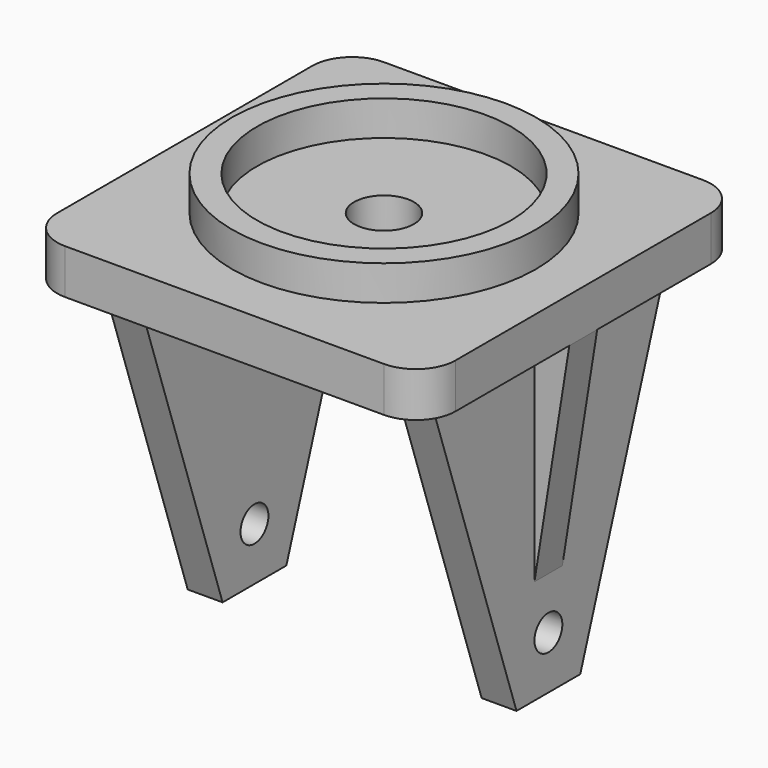
from build123d import *

# Parameters (mm, degrees)
F1_DEPTH  = 9
F2_R      = 30.5
F2_R_2    = 25.5
F3_DEPTH  = 7
F4_R      = 6
F5_DEPTH  = 9.001
F6_W      = 7
F6_H      = 60
F7_DEPTH  = 65
F9_DEPTH  = 73.001
F11_DEPTH = 7
F13_DEPTH = 43.501
F15_DEPTH = 7
F17_DEPTH = 43.501
F18_R     = 3.5
F19_DEPTH = 73.001


with BuildPart() as f1:
    # F0 (on Top) → F1 (new body)
    with BuildSketch(Plane.XY):
        with BuildLine():
            Line((33.60959, 30.321302), (-30.39041, 30.321302))
            ThreePointArc((-30.39041, 30.321302), (-36.047264, 27.978156), (-38.39041, 22.321302))
            Line((-38.39041, 22.321302), (-38.39041, -41.678698))
            ThreePointArc((-38.39041, -41.678698), (-36.047264, -47.335552), (-30.39041, -49.678698))
            Line((-30.39041, -49.678698), (33.60959, -49.678698))
            ThreePointArc((33.60959, -49.678698), (39.266444, -47.335552), (41.60959, -41.678698))
            Line((41.60959, -41.678698), (41.60959, 22.321302))
            ThreePointArc((41.60959, 22.321302), (39.266444, 27.978156), (33.60959, 30.321302))
        make_face()
    extrude(amount=F1_DEPTH)

    # F2 (on face) → F3 (join)
    with BuildSketch(Plane.XY.offset(9)):
        with Locations((1.60959, -9.678698)):
            Circle(F2_R)
        with Locations((1.60959, -9.678698)):
            Circle(F2_R_2, mode=Mode.SUBTRACT)
    extrude(amount=F3_DEPTH)

    # F4 (on face) → F5 (cut, through all)
    with BuildSketch(Plane.XY.offset(9)):
        with Locations((1.60959, -9.678698)):
            Circle(F4_R)
    extrude(amount=-F5_DEPTH, mode=Mode.SUBTRACT)

    # F6 (on face) → F7 (join)
    with BuildSketch(Plane(origin=(0, 0, 0), x_dir=(1, 0, 0), z_dir=(0, 0, -1))):
        with Locations((-27.89041, 9.678698)):
            Rectangle(F6_W, F6_H)
        with Locations((31.10959, 9.678698)):
            Rectangle(F6_W, F6_H)
    extrude(amount=F7_DEPTH)

    # F8 (on face) → F9 (cut, through all)
    with BuildSketch(Plane.YZ.offset(34.60959)):
        Polygon((20.321302, -65), (20.321302, 0), (-1.678698, -65), align=None)
        Polygon((-17.678698, -65), (-39.678698, 0), (-39.678698, -65), align=None)
    extrude(amount=-F9_DEPTH, mode=Mode.SUBTRACT)

    # F10 (on face) → F11 (join)
    with BuildSketch(Plane.YZ.offset(34.60959)):
        Polygon((-6.178698, 0), (-9.678698, 0), (-13.178698, 0), (-13.178698, -44), (-6.178698, -44), align=None)
    extrude(amount=F11_DEPTH)

    # F12 (on face) → F13 (cut, through all)
    with BuildSketch(Plane(origin=(0, -6.178698, 0), x_dir=(-1, 0, 0), z_dir=(0, 1, 0))):
        Polygon((-34.60959, -44), (-41.60959, 0), (-41.60959, -44), align=None)
    extrude(amount=-F13_DEPTH, mode=Mode.SUBTRACT)

    # F14 (on face) → F15 (join)
    with BuildSketch(Plane(origin=(-31.39041, 0, 0), x_dir=(0, -1, 0), z_dir=(-1, 0, 0))):
        Polygon((13.178698, 0), (9.678698, 0), (6.178698, 0), (6.178698, -44), (13.178698, -44), align=None)
    extrude(amount=F15_DEPTH)

    # F16 (on face) → F17 (cut, through all)
    with BuildSketch(Plane.XZ.offset(13.178698)):
        Polygon((-31.39041, -44), (-38.39041, 0), (-38.39041, -44), align=None)
    extrude(amount=-F17_DEPTH, mode=Mode.SUBTRACT)

    # F18 (on face) → F19 (cut, through all)
    with BuildSketch(Plane.YZ.offset(34.60959)):
        with Locations((-9.678698, -54.387681)):
            Circle(F18_R)
    extrude(amount=-F19_DEPTH, mode=Mode.SUBTRACT)


solid = f1.part
